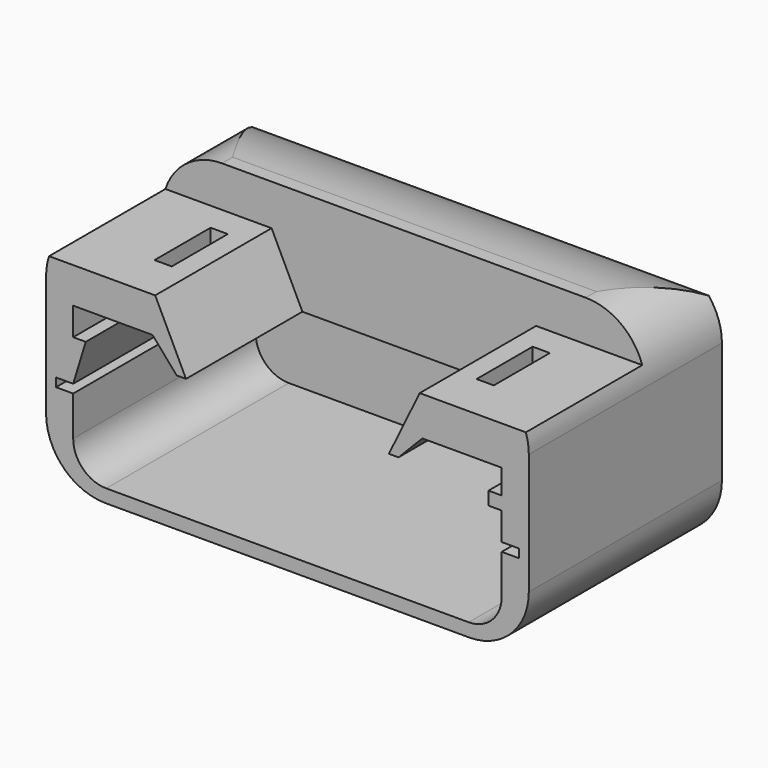
from build123d import *

# Parameters (mm, degrees)
BOX030_W                             = 48
BOX030_H                             = 60
BOX030_DEPTH                         = 10
BOX028_W                             = 2.6
BOX028_H                             = 10.6
BOX028_DEPTH                         = 15
BOX027_W                             = 2.6
BOX027_H                             = 10.6
BOX027_DEPTH                         = 15
EXTRUDE076_DEPTH                     = 34.5
EXTRUDE076_ONTO_SKETCH082_ROLL_ANGLE = 90
EXTRUDE075_DEPTH                     = 34.5
EXTRUDE075_ONTO_SKETCH081_ROLL_ANGLE = 90
EXTRUDE077_DEPTH                     = 10.5
EXTRUDE077_ONTO_SKETCH083_ROLL_ANGLE = 90
EXTRUDE080_DEPTH                     = 100
EXTRUDE079_DEPTH                     = 2
EXTRUDE079_ONTO_SKETCH085_ROLL_ANGLE = 90
BOX029_W                             = 80
BOX029_H                             = 28
BOX029_DEPTH                         = 30
EXTRUDE078_DEPTH                     = 35.5
EXTRUDE078_ONTO_SKETCH084_ROLL_ANGLE = 90
BOX032_W                             = 48
BOX032_H                             = 60
BOX032_DEPTH                         = 35
BOX031_W                             = 48
BOX031_H                             = 60
BOX031_DEPTH                         = 35
BOX033_W                             = 48
BOX033_H                             = 60
BOX033_DEPTH                         = 35
EXTRUDE081_DEPTH                     = 2
EXTRUDE081_ONTO_SKETCH087_ROLL_ANGLE = 90


with BuildPart() as cube:
    # Box030 → Box030 (new body)
    with BuildSketch(Plane(origin=(11, 60.5, -2.6), x_dir=(1, 0, 0), z_dir=(0, 0, 1))):
        with Locations((24, 30)):
            Rectangle(BOX030_W, BOX030_H)
    extrude(amount=BOX030_DEPTH)


with BuildPart() as control_cutout_rec003:
    # Box028 → Box028 (new body)
    with BuildSketch(Plane(origin=(57, 93, 9), x_dir=(1, 0, 0), z_dir=(0, 0, 1))):
        with Locations((1.3, 5.3)):
            Rectangle(BOX028_W, BOX028_H)
    extrude(amount=BOX028_DEPTH)


with BuildPart() as button_cutouts_rec001:
    # Box027 → Box027 (new body)
    with BuildSketch(Plane(origin=(8.3, 93, 9), x_dir=(1, 0, 0), z_dir=(0, 0, 1))):
        with Locations((1.3, 5.3)):
            Rectangle(BOX027_W, BOX027_H)
    extrude(amount=BOX027_DEPTH)

    # Fusion041: union control_cutout_rec003
    add(control_cutout_rec003.part)


with BuildPart() as obj1:
    # Sketch082 as drawn → Extrude076 (new)
    with BuildSketch(Plane.XY):
        Polygon((14, 17), (-5.5, 17), (-5.5, 25.6), (73.5, 25.6), (73.5, 17), (54, 17), (49, 6.7), (49, 6.6), (19, 6.6), (19, 6.7), align=None)
    extrude(amount=-EXTRUDE076_DEPTH)


with BuildPart() as obj1_1:
    # Extrude076 onto Sketch082 roll: moved
    add(obj1.part.rotate(Axis((0, 0, 0), (1, 0, 0)), EXTRUDE076_ONTO_SKETCH082_ROLL_ANGLE))


with BuildPart() as obj1_2:
    # Extrude076 onto Sketch082 placement: moved
    add(obj1_1.part.moved(Location((0, 86, 0))))


with BuildPart() as screen_frame002:
    # Sketch081 as drawn → Extrude075 (new)
    with BuildSketch(Plane.XY):
        with BuildLine():
            Line((-2.5, 14.2), (-2.5, 10.6))
            Line((-2.5, 10.6), (1.6, 10.6))
            Line((1.6, 10.6), (1.6, 11.6))
            Line((1.6, 11.6), (13.6, 11.6))
            Line((13.6, 11.6), (17.6, 7))
            Line((17.6, 7), (50.4, 7))
            Line((50.4, 7), (54.4, 11.1))
            Line((54.4, 11.1), (66.4, 11.1))
            Line((66.4, 11.1), (66.4, 10.6))
            Line((66.4, 10.6), (70.5, 10.6))
            Line((70.5, 10.6), (70.5, 14.2))
            ThreePointArc((70.5, 14.2), (67.863961, 20.563961), (61.5, 23.2))
            Line((6.5, 23.2), (61.5, 23.2))
            ThreePointArc((6.5, 23.2), (0.136039, 20.563961), (-2.5, 14.2))
        make_face()
    extrude(amount=-EXTRUDE075_DEPTH)


with BuildPart() as screen_frame002_1:
    # Extrude075 onto Sketch081 roll: moved
    add(screen_frame002.part.rotate(Axis((0, 0, 0), (1, 0, 0)), EXTRUDE075_ONTO_SKETCH081_ROLL_ANGLE))


with BuildPart() as screen_frame002_2:
    # Extrude075 onto Sketch081 placement: moved
    add(screen_frame002_1.part.moved(Location((0, 86, 0))))

    # Cut031: cut obj1
    add(obj1_2.part, mode=Mode.SUBTRACT)


with BuildPart() as cut032:
    # Sketch083 as drawn → Extrude077 (new)
    with BuildSketch(Plane.XY):
        Polygon((13.6, 12.2), (17.6, 7.2), (50.4, 7.2), (54.4, 12.2), align=None)
    extrude(amount=-EXTRUDE077_DEPTH)


with BuildPart() as cut032_1:
    # Extrude077 onto Sketch083 roll: moved
    add(cut032.part.rotate(Axis((0, 0, 0), (1, 0, 0)), EXTRUDE077_ONTO_SKETCH083_ROLL_ANGLE))


with BuildPart() as cut032_2:
    # Extrude077 onto Sketch083 placement: moved
    add(cut032_1.part.moved(Location((0, 110, 0))))

    # Fusion042: union screen_frame002
    add(screen_frame002_2.part)

    # Cut032: cut button_cutouts_rec001
    add(button_cutouts_rec001.part, mode=Mode.SUBTRACT)


with BuildPart() as round_cut002:
    # Sketch086 → Extrude080 (new body)
    with BuildSketch(Plane.YZ.offset(-14)):
        with BuildLine():
            Line((100, 23.2), (100, 26.2))
            Line((100, 26.2), (138, 26.2))
            Line((138, 26.2), (138, -11.8))
            Line((138, -11.8), (135, -11.8))
            Line((135, -11.8), (135, -1.8))
            ThreePointArc((135, -1.8), (127.67767, 15.87767), (110, 23.2))
            Line((100, 23.2), (110, 23.2))
        make_face()
    extrude(amount=EXTRUDE080_DEPTH)


with BuildPart() as extrude079:
    # Sketch085 as drawn → Extrude079 (new)
    with BuildSketch(Plane.XY):
        with BuildLine():
            Line((-2.5, 14.2), (-2.5, -4.1))
            ThreePointArc((-2.5, -4.1), (0.136039, -10.463961), (6.5, -13.1))
            Line((6.5, -13.1), (61.5, -13.1))
            ThreePointArc((61.5, -13.1), (67.863961, -10.463961), (70.5, -4.1))
            Line((70.5, -4.1), (70.5, 14.2))
            ThreePointArc((70.5, 14.2), (67.863961, 20.563961), (61.5, 23.2))
            Line((6.5, 23.2), (61.5, 23.2))
            ThreePointArc((6.5, 23.2), (0.136039, 20.563961), (-2.5, 14.2))
        make_face()
    extrude(amount=-EXTRUDE079_DEPTH)


with BuildPart() as extrude079_1:
    # Extrude079 onto Sketch085 roll: moved
    add(extrude079.part.rotate(Axis((0, 0, 0), (1, 0, 0)), EXTRUDE079_ONTO_SKETCH085_ROLL_ANGLE))


with BuildPart() as extrude079_2:
    # Extrude079 onto Sketch085 placement: moved
    add(extrude079_1.part.moved(Location((0, 120, 0))))


with BuildPart() as extrude079_3:
    # Extrude079 placement: moved
    add(extrude079_2.part.moved(Location((0, 0.5, 0))))


with BuildPart() as cube008:
    # Box029 → Box029 (new body)
    with BuildSketch(Plane(origin=(-5, 82, 10.6), x_dir=(1, 0, 0), z_dir=(0, 0, 1))):
        with Locations((40, 14)):
            Rectangle(BOX029_W, BOX029_H)
    extrude(amount=BOX029_DEPTH)


with BuildPart() as shell_upper004:
    # Sketch084 as drawn → Extrude078 (new)
    with BuildSketch(Plane.XY):
        with BuildLine():
            Line((-2.5, 14.2), (-2.5, -4.1))
            ThreePointArc((-2.5, -4.1), (0.136039, -10.463961), (6.5, -13.1))
            Line((6.5, -13.1), (61.5, -13.1))
            ThreePointArc((61.5, -13.1), (67.863961, -10.463961), (70.5, -4.1))
            Line((70.5, -4.1), (70.5, 14.2))
            ThreePointArc((70.5, 14.2), (67.863961, 20.563961), (61.5, 23.2))
            Line((6.5, 23.2), (61.5, 23.2))
            ThreePointArc((6.5, 23.2), (0.136039, 20.563961), (-2.5, 14.2))
        make_face()
        with BuildLine():
            Line((1.6, 1.2), (-1, 1.2))
            Line((-1, 1.2), (-1, -0.1))
            Line((-1, -0.1), (1.6, -0.1))
            Line((1.6, -0.1), (1.6, -6.1))
            ThreePointArc((1.6, -6.1), (3.064466, -9.635534), (6.6, -11.1))
            Line((6.6, -11.1), (61.4, -11.1))
            ThreePointArc((61.4, -11.1), (64.935534, -9.635534), (66.4, -6.1))
            Line((66.4, -0.1), (66.4, -6.1))
            Line((69, -0.1), (66.4, -0.1))
            Line((69, 1.2), (69, -0.1))
            Line((66.4, 1.2), (69, 1.2))
            Line((66.4, 5.4), (66.4, 1.2))
            Line((64.4, 5.4), (66.4, 5.4))
            Line((64.4, 7.4), (64.4, 5.4))
            Line((66.4, 7.4), (64.4, 7.4))
            Line((66.4, 10.6), (66.4, 7.4))
            Line((66.4, 10.6), (66.4, 10.8))
            Line((66.4, 10.8), (64.5, 10.8))
            Line((64.5, 10.8), (3.5, 10.8))
            Line((1.6, 10.8), (3.5, 10.8))
            Line((1.6, 10.6), (1.6, 10.8))
            Line((1.6, 10.6), (1.6, 7.4))
            Line((1.6, 7.4), (3.5, 7.4))
            Line((3.5, 7.4), (1.6, 1.2))
        make_face(mode=Mode.SUBTRACT)
    extrude(amount=EXTRUDE078_DEPTH)


with BuildPart() as shell_upper004_1:
    # Extrude078 onto Sketch084 roll: moved
    add(shell_upper004.part.rotate(Axis((0, 0, 0), (1, 0, 0)), EXTRUDE078_ONTO_SKETCH084_ROLL_ANGLE))


with BuildPart() as shell_upper004_2:
    # Extrude078 onto Sketch084 placement: moved
    add(shell_upper004_1.part.moved(Location((0, 120, 0))))


with BuildPart() as shell_upper004_3:
    # Extrude078 placement: moved
    add(shell_upper004_2.part.moved(Location((0, 1.5, 0))))

    # Cut033: cut Cube008
    add(cube008.part, mode=Mode.SUBTRACT)

    # Fusion043: union Extrude079
    add(extrude079_3.part)

    # Cut034: cut round_cut002
    add(round_cut002.part, mode=Mode.SUBTRACT)

    # Fusion044: union Cut032
    add(cut032_2.part)


with BuildPart() as cube010:
    # Box032 → Box032 (new body)
    with BuildSketch(Plane(origin=(54, 60.5, -20.6), x_dir=(1, 0, 0), z_dir=(0, 0, 1))):
        with Locations((24, 30)):
            Rectangle(BOX032_W, BOX032_H)
    extrude(amount=BOX032_DEPTH)


with BuildPart() as cube009:
    # Box031 → Box031 (new body)
    with BuildSketch(Plane(origin=(-33, 60.5, -21.6), x_dir=(1, 0, 0), z_dir=(0, 0, 1))):
        with Locations((24, 30)):
            Rectangle(BOX031_W, BOX031_H)
    extrude(amount=BOX031_DEPTH)


with BuildPart() as fusion045:
    # Box033 → Box033 (new body)
    with BuildSketch(Plane(origin=(11, 60.5, -32.6), x_dir=(1, 0, 0), z_dir=(0, 0, 1))):
        with Locations((24, 30)):
            Rectangle(BOX033_W, BOX033_H)
    extrude(amount=BOX033_DEPTH)

    # Fusion045: union Cube010, Cube009
    add(cube010.part)
    add(cube009.part)


with BuildPart() as shell_upper_tuned:
    # Sketch087 as drawn → Extrude081 (new)
    with BuildSketch(Plane.XY):
        with BuildLine():
            Line((-2.5, 14.2), (-2.5, -4.099997))
            ThreePointArc((-2.5, -4.099997), (0.136039, -10.463958), (6.5, -13.099997))
            Line((6.5, -13.099997), (61.498163, -13.099997))
            ThreePointArc((61.498163, -13.099997), (67.863423, -10.46342), (70.5, -4.09816))
            Line((70.5, -4.09816), (70.5, 14.2))
            ThreePointArc((70.5, 14.2), (67.863961, 20.563961), (61.5, 23.2))
            Line((6.5, 23.2), (61.5, 23.2))
            ThreePointArc((6.5, 23.2), (0.136039, 20.563961), (-2.5, 14.2))
        make_face()
        with BuildLine():
            Line((1.6, 1.200003), (-1, 1.200003))
            Line((-1, 1.200003), (-1, -0.099997))
            Line((-1, -0.099997), (1.6, -0.099997))
            Line((1.6, -0.099997), (1.6, -6.099997))
            ThreePointArc((1.6, -6.099997), (3.064466, -9.635531), (6.6, -11.099997))
            Line((6.6, -11.099997), (61.399986, -11.099997))
            ThreePointArc((61.399986, -11.099997), (64.936819, -9.634993), (66.401823, -6.09816))
            Line((66.401823, -0.09816), (66.401823, -6.09816))
            Line((69, -0.09816), (66.401823, -0.09816))
            Line((69, 1.20184), (69, -0.09816))
            Line((66.401823, 1.20184), (69, 1.20184))
            Line((66.401823, 5.40184), (66.401823, 1.20184))
            Line((64.3846, 5.40184), (66.401823, 5.40184))
            Line((64.3846, 10.90184), (64.3846, 5.40184))
            Line((54.2, 10.90184), (64.3846, 10.90184))
            Line((50.4, 7), (54.2, 10.90184))
            Line((17.6, 7), (50.4, 7))
            Line((14.2, 10.97071), (17.6, 7))
            Line((3.5, 10.97071), (14.2, 10.97071))
            Line((3.5, 7.47071), (3.5, 10.97071))
            Line((3.5, 7.47071), (1.6, 1.200003))
        make_face(mode=Mode.SUBTRACT)
    extrude(amount=-EXTRUDE081_DEPTH)


with BuildPart() as shell_upper_tuned_1:
    # Extrude081 onto Sketch087 roll: moved
    add(shell_upper_tuned.part.rotate(Axis((0, 0, 0), (1, 0, 0)), EXTRUDE081_ONTO_SKETCH087_ROLL_ANGLE))


with BuildPart() as shell_upper_tuned_2:
    # Extrude081 onto Sketch087 placement: moved
    add(shell_upper_tuned_1.part.moved(Location((0, 84, 0))))


with BuildPart() as shell_upper_tuned_3:
    # Extrude081 placement: moved
    add(shell_upper_tuned_2.part.moved(Location((0, 24, 0))))

    # Cut035: cut Fusion045
    add(fusion045.part, mode=Mode.SUBTRACT)

    # Fusion046: union shell_upper004
    add(shell_upper004_3.part)

    # Cut036: cut Cube
    add(cube.part, mode=Mode.SUBTRACT)


solid = shell_upper_tuned_3.part
